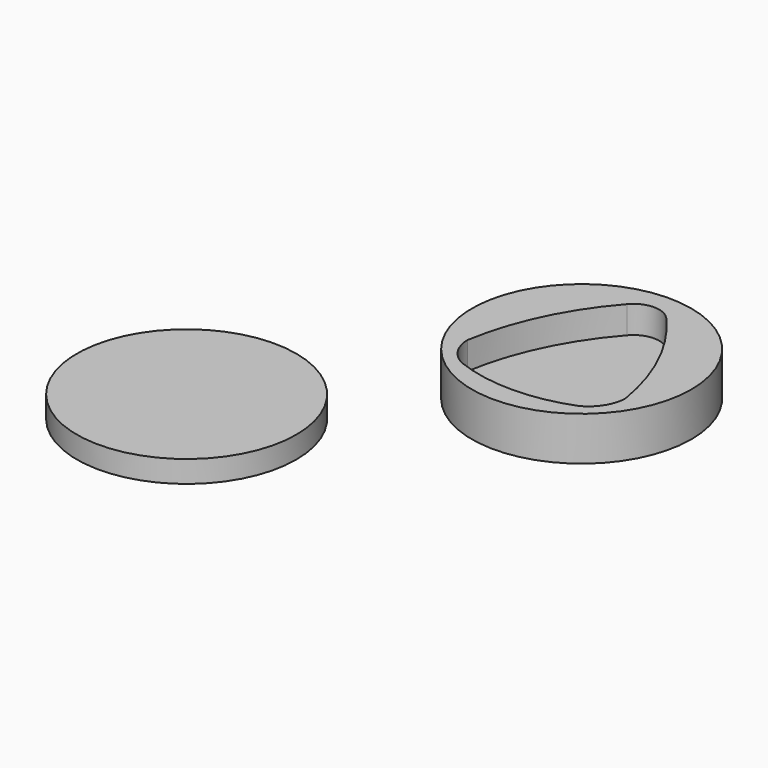
from build123d import *

# Parameters (mm, degrees)
SKETCH003_R  = 20
PAD003_DEPTH = 4
PAD001_DEPTH = 5
SKETCH002_R  = 20
PAD002_DEPTH = 8


with BuildPart() as up:
    # Sketch003 → Pad003 (new body)
    with BuildSketch(Plane.XY):
        Circle(SKETCH003_R)
    extrude(amount=PAD003_DEPTH)


with BuildPart() as up_1:
    # Body003 placement: moved
    add(up.part.moved(Location((-20, -20, -8))))


with BuildPart() as body001:
    # Sketch001 → Pad001 (new body)
    with BuildSketch(Plane.XY):
        with BuildLine():
            ThreePointArc((3.6, 14.8), (0, 16.48615), (-3.6, 14.8))
            ThreePointArc((-3.6, 14.8), (-10.607062, 4.16124), (-14.4, -8))
            ThreePointArc((-14.4, -8), (-13.345547, -11.535513), (-10.6, -14))
            ThreePointArc((-10.6, -14), (0, -15.982852), (10.6, -14))
            ThreePointArc((10.6, -14), (13.345547, -11.535513), (14.4, -8))
            ThreePointArc((14.4, -8), (10.607062, 4.16124), (3.6, 14.8))
        make_face()
    extrude(amount=PAD001_DEPTH)


with BuildPart() as body001_1:
    # Body001 placement: moved
    add(body001.part.moved(Location((0, 0, -5))))


with BuildPart() as model_fusion:
    # Sketch002 → Pad002 (new body)
    with BuildSketch(Plane.XY):
        Circle(SKETCH002_R)
    extrude(amount=PAD002_DEPTH)


with BuildPart() as model_fusion_1:
    # Body002 placement: moved
    add(model_fusion.part.moved(Location((0, 0, -8))))

    # Cut: cut Body001
    add(body001_1.part, mode=Mode.SUBTRACT)


with BuildPart() as model_fusion_2:
    # Cut placement: moved
    add(model_fusion_1.part.moved(Location((20, 20, 0))))

    # Fusion: union Up
    add(up_1.part)


solid = model_fusion_2.part
